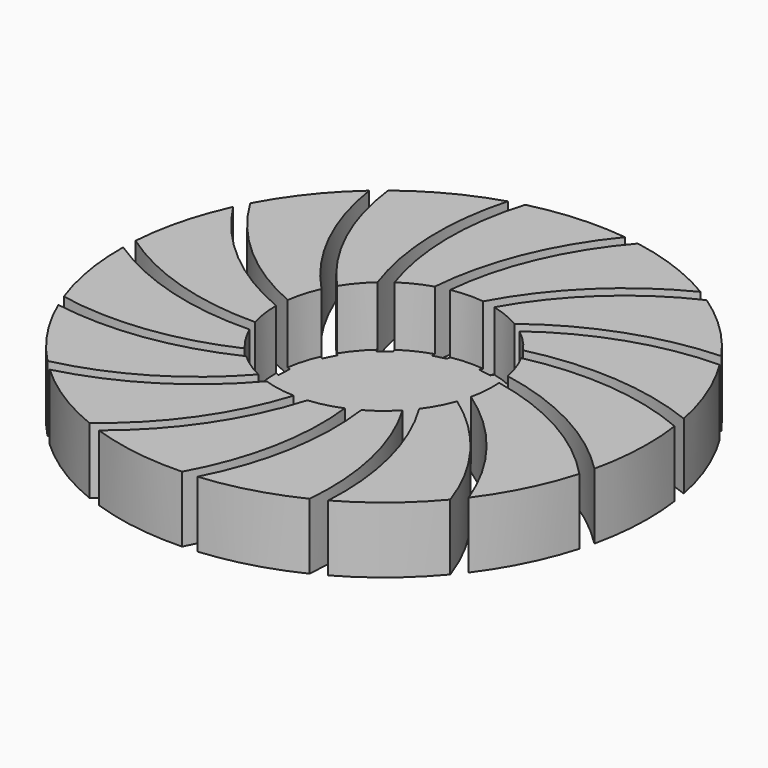
from build123d import *

# Parameters (mm, degrees)
SKETCH013_R           = 40
PAD006_DEPTH          = 10
POCKET006_DEPTH       = 237.157334
POLARPATTERN001_COUNT = 15
SKETCH014_R           = 16.5
POCKET007_DEPTH       = 9


with BuildPart() as part:
    # Sketch013 → Pad006 (new body)
    with BuildSketch(Plane.XY):
        Circle(SKETCH013_R)
    extrude(amount=PAD006_DEPTH)

    # Sketch015 (on Face1 of ShapeBinder003) → Pocket006 (cut, through all)
    with BuildSketch(Plane.XY.offset(10)):
        with BuildLine():
            ThreePointArc((-36.92851, 17.8125), (-27.922716, 7.192654), (-16, 0))
            Line((-15.874508, 2), (-16, 0))
            ThreePointArc((-35.895192, 19.8125), (-27.374199, 9.232269), (-15.874508, 2))
            Line((-35.895192, 19.8125), (-36.92851, 17.8125))
        make_face()
    pocket006 = extrude(amount=-POCKET006_DEPTH, mode=Mode.SUBTRACT)

    # PolarPattern001: Pocket006 ×15 about axis
    polarpattern001_axis = Axis((0, 0, 0), (0, 0, 1))
    for i in range(1, POLARPATTERN001_COUNT):
        add(pocket006.rotate(polarpattern001_axis, i * 360 / POLARPATTERN001_COUNT), mode=Mode.SUBTRACT)

    # Sketch014 (on Face4 of PolarPattern001) → Pocket007 (cut)
    with BuildSketch(Plane.XY.offset(10)):
        Circle(SKETCH014_R)
    extrude(amount=-POCKET007_DEPTH, mode=Mode.SUBTRACT)


with BuildPart() as part_1:
    # Body006 placement: moved
    add(part.part.moved(Location((50, 63, 63))))


solid = part_1.part
